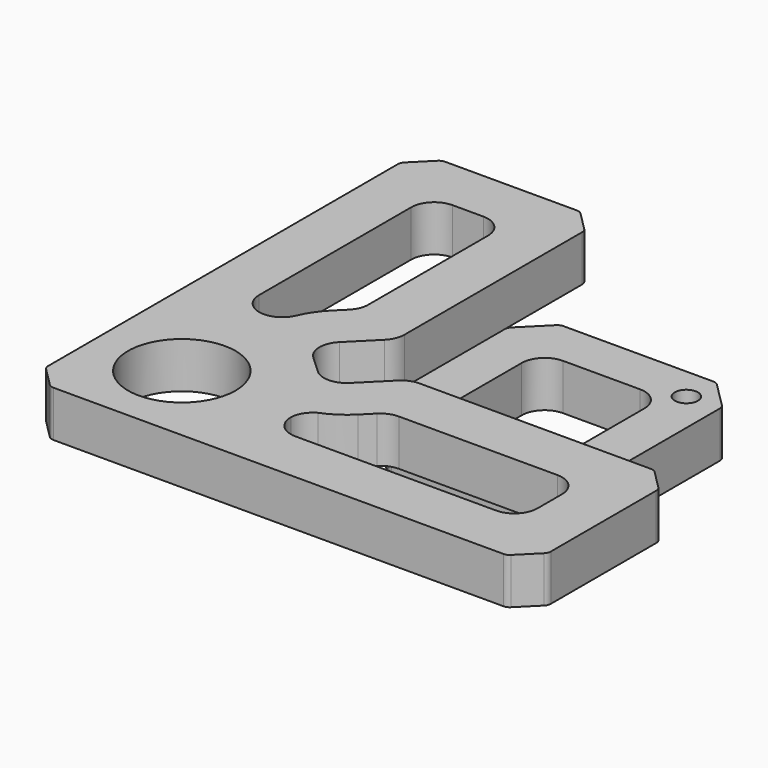
from build123d import *

# Parameters (mm, degrees)
F0_R     = 4.7625
F1_DEPTH = 19.05
F2_R     = 9.525
F3_R     = 22.225
F4_DEPTH = 19.05
F5_R     = 3.175


with BuildPart() as f1:
    # F0 (on Top) → F1 (new body)
    with BuildSketch(Plane.XY):
        with BuildLine():
            ThreePointArc((-33.22468, -43.520064), (-32.194636, -44.208318), (-30.979616, -44.45))
            Line((-30.979616, -44.45), (0, -44.45))
            Line((0, -44.45), (0, -25.4))
            Line((0, -25.4), (-25.4, -25.4))
            Line((-25.4, -25.4), (-25.4, 0))
            Line((-25.4, 0), (-44.45, 0))
            Line((-44.45, 0), (-44.45, -30.979616))
            ThreePointArc((-44.45, -30.979616), (-44.208318, -32.194636), (-43.520064, -33.22468))
            Line((-43.520064, -33.22468), (-33.22468, -43.520064))
        make_face()
        with BuildLine():
            Line((-44.45, 0), (-25.4, 0))
            Line((-25.4, 0), (-25.4, 25.4))
            Line((-25.4, 25.4), (0, 25.4))
            Line((0, 25.4), (0, 44.45))
            Line((0, 44.45), (-30.979616, 44.45))
            ThreePointArc((-30.979616, 44.45), (-32.194636, 44.208318), (-33.22468, 43.520064))
            Line((-33.22468, 43.520064), (-43.520064, 33.22468))
            ThreePointArc((-43.520064, 33.22468), (-44.208318, 32.194636), (-44.45, 30.979616))
            Line((-44.45, 30.979616), (-44.45, 0))
        make_face()
        with BuildLine():
            Line((25.4, 25.4), (25.4, 0))
            Line((25.4, 0), (44.45, 0))
            Line((44.45, 0), (44.45, 30.979616))
            ThreePointArc((44.45, 30.979616), (44.208318, 32.194636), (43.520064, 33.22468))
            Line((43.520064, 33.22468), (33.22468, 43.520064))
            ThreePointArc((33.22468, 43.520064), (32.194636, 44.208318), (30.979616, 44.45))
            Line((30.979616, 44.45), (0, 44.45))
            Line((0, 44.45), (0, 25.4))
            Line((0, 25.4), (25.4, 25.4))
        make_face()
        with Locations((30.788154, 30.788154)):
            Circle(F0_R, mode=Mode.SUBTRACT)
        with BuildLine():
            Line((0, -25.4), (0, -44.45))
            Line((0, -44.45), (30.979616, -44.45))
            ThreePointArc((30.979616, -44.45), (32.194636, -44.208318), (33.22468, -43.520064))
            Line((33.22468, -43.520064), (43.520064, -33.22468))
            ThreePointArc((43.520064, -33.22468), (44.208318, -32.194636), (44.45, -30.979616))
            Line((44.45, -30.979616), (44.45, 0))
            Line((44.45, 0), (25.4, 0))
            Line((25.4, 0), (25.4, -25.4))
            Line((25.4, -25.4), (0, -25.4))
        make_face()
    extrude(amount=F1_DEPTH)

    # F2
    f2_edges = [f1.edges().sort_by_distance(p)[0] for p in [
        (-25.4, 25.4, 9.525),
        (25.4, 25.4, 9.525),
        (25.4, -25.4, 9.525),
        (-25.4, -25.4, 9.525),
    ]]
    fillet(f2_edges, radius=F2_R)


with BuildPart() as f4:
    # F3 (on face) → F4 (new body)
    with BuildSketch(Plane.XY.offset(19.05)):
        with BuildLine():
            Line((-44.45, -20.940728), (-44.45, 30.979616))
            Line((-44.45, 30.979616), (-44.45, 72.254616))
            Line((-44.45, 72.254616), (-53.975, 81.779616))
            Line((-53.975, 81.779616), (-111.125, 81.779616))
            Line((-111.125, 81.779616), (-120.65, 72.254616))
            Line((-120.65, 72.254616), (-120.65, 30.979616))
            Line((-120.65, 30.979616), (-120.65, -111.125))
            Line((-120.65, -111.125), (-111.125, -120.65))
            Line((-111.125, -120.65), (30.979616, -120.65))
            Line((30.979616, -120.65), (77.659737, -120.65))
            Line((77.659737, -120.65), (87.184737, -111.125))
            Line((87.184737, -111.125), (87.184737, -53.975))
            Line((87.184737, -53.975), (77.659737, -44.45))
            Line((77.659737, -44.45), (30.979616, -44.45))
            Line((30.979616, -44.45), (21.454616, -44.45))
            Line((21.454616, -44.45), (-19.369104, -44.45))
            ThreePointArc((-19.369104, -44.45), (-23.014163, -45.175047), (-26.104296, -47.239808))
            Line((-26.104296, -47.239808), (-37.039934, -58.175447))
            ThreePointArc((-37.039934, -58.175447), (-43.591323, -60.963481), (-50.245414, -58.430319))
            Line((-50.245414, -58.430319), (-57.390378, -51.816651))
            ThreePointArc((-57.390378, -51.816651), (-60.443317, -45.010389), (-57.655282, -38.091394))
            Line((-57.655282, -38.091394), (-47.239808, -27.67592))
            ThreePointArc((-47.239808, -27.67592), (-45.175047, -24.585787), (-44.45, -20.940728))
        make_face()
        with Locations((-84.852698, -85.505492)):
            Circle(F3_R, mode=Mode.SUBTRACT)
        with BuildLine():
            Line((21.454616, -66.675), (30.979616, -66.675))
            Line((30.979616, -66.675), (55.434737, -66.675))
            ThreePointArc((55.434737, -66.675), (62.169929, -69.464808), (64.959737, -76.2))
            Line((64.959737, -76.2), (64.959737, -88.9))
            ThreePointArc((64.959737, -88.9), (62.169929, -95.635192), (55.434737, -98.425))
            Line((55.434737, -98.425), (30.979616, -98.425))
            Line((30.979616, -98.425), (-27.514934, -98.425))
            ThreePointArc((-27.514934, -98.425), (-34.250127, -95.635192), (-37.039934, -88.9))
            ThreePointArc((-37.039934, -88.9), (-35.648431, -84.329884), (-32.213048, -81.010186))
            ThreePointArc((-32.213048, -81.010186), (-26.400221, -78.014211), (-21.324486, -73.890895))
            Line((-21.324486, -73.890895), (-16.898399, -69.464808))
            ThreePointArc((-16.898399, -69.464808), (-13.808267, -67.400047), (-10.163207, -66.675))
            Line((-10.163207, -66.675), (21.454616, -66.675))
        make_face(mode=Mode.SUBTRACT)
        with BuildLine():
            Line((-98.425, 30.979616), (-98.425, 50.029616))
            ThreePointArc((-98.425, 50.029616), (-95.635192, 56.764808), (-88.9, 59.554616))
            Line((-88.9, 59.554616), (-76.2, 59.554616))
            ThreePointArc((-76.2, 59.554616), (-69.464808, 56.764808), (-66.675, 50.029616))
            Line((-66.675, 50.029616), (-66.675, 30.979616))
            Line((-66.675, 30.979616), (-66.675, -11.734831))
            ThreePointArc((-66.675, -11.734831), (-67.400047, -15.379891), (-69.464808, -18.470023))
            Line((-69.464808, -18.470023), (-73.37073, -22.375946))
            ThreePointArc((-73.37073, -22.375946), (-77.21095, -27.026215), (-80.102558, -32.318746))
            ThreePointArc((-80.102558, -32.318746), (-83.613995, -36.518336), (-88.857299, -38.091394))
            Line((-88.857299, -38.091394), (-88.9, -38.091394))
            ThreePointArc((-88.9, -38.091394), (-95.635192, -35.301586), (-98.425, -28.566394))
            Line((-98.425, -28.566394), (-98.425, 30.979616))
        make_face(mode=Mode.SUBTRACT)
    extrude(amount=F4_DEPTH)

    # F5
    f5_edges = [f4.edges().sort_by_distance(p)[0] for p in [
        (-111.125, 81.779616, 28.575),
        (-53.975, 81.779616, 28.575),
        (-44.45, 72.254616, 28.575),
        (77.659737, -44.45, 28.575),
        (87.184737, -53.975, 28.575),
        (87.184737, -111.125, 28.575),
        (77.659737, -120.65, 28.575),
        (-120.65, 72.254616, 28.575),
        (-120.65, -111.125, 28.575),
        (-111.125, -120.65, 28.575),
    ]]
    fillet(f5_edges, radius=F5_R)


solid = Compound([f1.part, f4.part])
